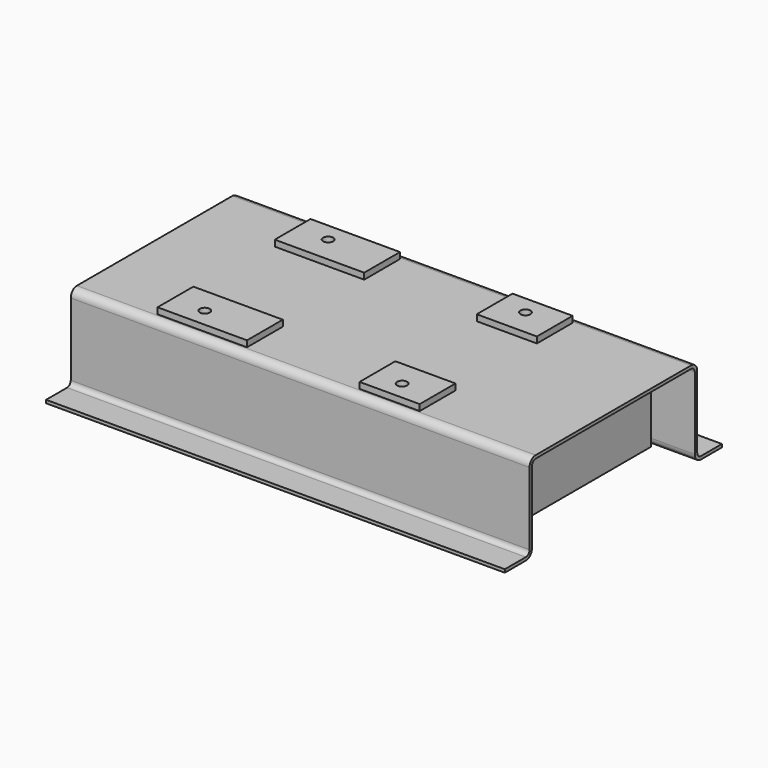
from build123d import *

# Parameters (mm, degrees)
F1_DEPTH = 944.626
F2_W     = 12.7
F2_H     = 838.2
F3_DEPTH = 349.25
F4_W     = 368.3
F4_H     = 184.15
F4_R     = 20.6375
F4_W_2   = 247.65
F5_DEPTH = 25.4


with BuildPart() as f1:
    # F0 (on Right) → F1 (new body, symmetric)
    with BuildSketch(Plane.YZ):
        with BuildLine():
            Line((400.05, 361.95), (0, 361.95))
            Line((0, 361.95), (-400.05, 361.95))
            ThreePointArc((-400.05, 361.95), (-422.50064, 352.65064), (-431.8, 330.2))
            Line((-431.8, 330.2), (-431.8, 31.75))
            ThreePointArc((-431.8, 31.75), (-437.379616, 18.279616), (-450.85, 12.7))
            Line((-450.85, 12.7), (-558.8, 12.7))
            Line((-558.8, 12.7), (-558.8, 6.35))
            Line((-558.8, 6.35), (-558.8, 0))
            Line((-558.8, 0), (-450.85, 0))
            ThreePointArc((-450.85, 0), (-428.39936, 9.29936), (-419.1, 31.75))
            Line((-419.1, 31.75), (-419.1, 330.2))
            ThreePointArc((-419.1, 330.2), (-413.520384, 343.670384), (-400.05, 349.25))
            Line((-400.05, 349.25), (0, 349.25))
            Line((0, 349.25), (400.05, 349.25))
            ThreePointArc((400.05, 349.25), (413.520384, 343.670384), (419.1, 330.2))
            Line((419.1, 330.2), (419.1, 31.75))
            ThreePointArc((419.1, 31.75), (428.39936, 9.29936), (450.85, 0))
            Line((450.85, 0), (558.8, 0))
            Line((558.8, 0), (558.8, 6.35))
            Line((558.8, 6.35), (558.8, 12.7))
            Line((558.8, 12.7), (450.85, 12.7))
            ThreePointArc((450.85, 12.7), (437.379616, 18.279616), (431.8, 31.75))
            Line((431.8, 31.75), (431.8, 330.2))
            ThreePointArc((431.8, 330.2), (422.50064, 352.65064), (400.05, 361.95))
        make_face()
    extrude(amount=F1_DEPTH, both=True)

    # F2 (on face) → F3 (join, through all)
    with BuildSketch(Plane(origin=(0, 0, 349.25), x_dir=(1, 0, 0), z_dir=(0, 0, -1))):
        with Locations((757.428, 0)):
            Rectangle(F2_W, F2_H)
    extrude(amount=F3_DEPTH)

    # F4 (on face) → F5 (join)
    with BuildSketch(Plane.XY.offset(361.95)):
        with Locations((-433.324, 301.625)):
            Rectangle(F4_W, F4_H)
        with Locations((-484.124, 317.5)):
            Circle(F4_R, mode=Mode.SUBTRACT)
        with Locations((338.201, 301.625)):
            Rectangle(F4_W_2, F4_H)
        with Locations((328.676, 317.5)):
            Circle(F4_R, mode=Mode.SUBTRACT)
        with Locations((338.201, -301.625)):
            Rectangle(F4_W_2, F4_H)
        with Locations((328.676, -317.5)):
            Circle(F4_R, mode=Mode.SUBTRACT)
        with Locations((-433.324, -301.625)):
            Rectangle(F4_W, F4_H)
        with Locations((-484.124, -317.5)):
            Circle(F4_R, mode=Mode.SUBTRACT)
    extrude(amount=F5_DEPTH)


solid = f1.part
